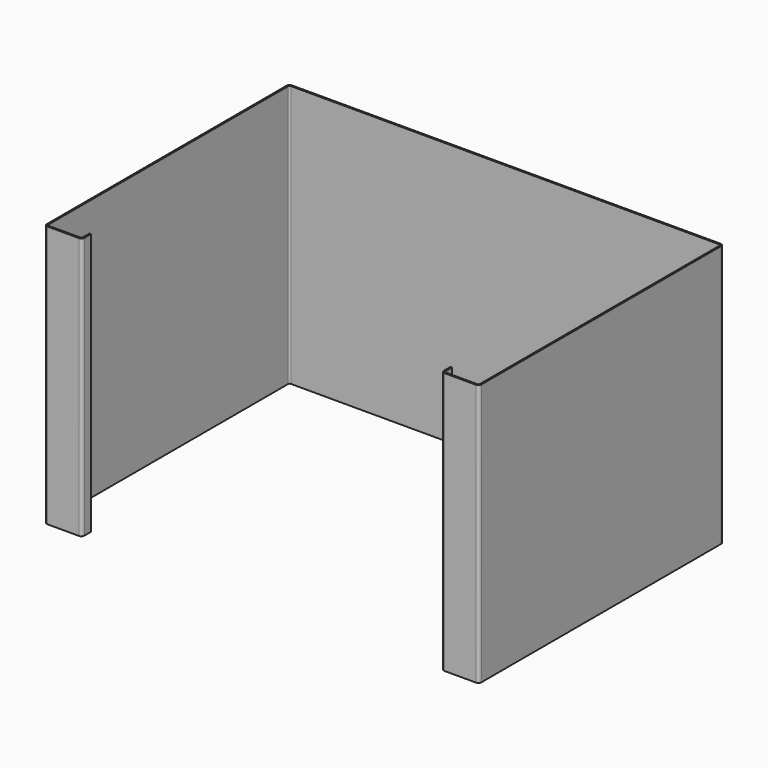
from build123d import *

# Parameters (mm, degrees)
F1_DEPTH = 350


with BuildPart() as f1:
    # F0 (on Top) → F1 (new body)
    with BuildSketch(Plane.XY):
        with BuildLine():
            ThreePointArc((-290, 4), (-288.828427, 1.171573), (-286, 0))
            Line((-286, 0), (-244, 0))
            ThreePointArc((-244, 0), (-241.171573, 1.171573), (-240, 4))
            Line((-240, 4), (-240, 15))
            Line((-240, 15), (-242, 15))
            Line((-242, 15), (-242, 4))
            ThreePointArc((-242, 4), (-242.585786, 2.585786), (-244, 2))
            Line((-244, 2), (-286, 2))
            ThreePointArc((-286, 2), (-287.414214, 2.585786), (-288, 4))
            Line((-288, 4), (-288, 404))
            ThreePointArc((-288, 404), (-287.414214, 405.414214), (-286, 406))
            Line((-286, 406), (286, 406))
            ThreePointArc((286, 406), (287.414214, 405.414214), (288, 404))
            Line((288, 404), (288, 4))
            ThreePointArc((288, 4), (287.414214, 2.585786), (286, 2))
            Line((286, 2), (244, 2))
            ThreePointArc((244, 2), (242.585786, 2.585786), (242, 4))
            Line((242, 4), (242, 15))
            Line((242, 15), (240, 15))
            Line((240, 15), (240, 4))
            ThreePointArc((240, 4), (241.171573, 1.171573), (244, 0))
            Line((244, 0), (286, 0))
            ThreePointArc((286, 0), (288.828427, 1.171573), (290, 4))
            Line((290, 4), (290, 404))
            ThreePointArc((290, 404), (288.828427, 406.828427), (286, 408))
            Line((286, 408), (-286, 408))
            ThreePointArc((-286, 408), (-288.828427, 406.828427), (-290, 404))
            Line((-290, 404), (-290, 4))
        make_face()
    extrude(amount=-F1_DEPTH)


solid = f1.part
